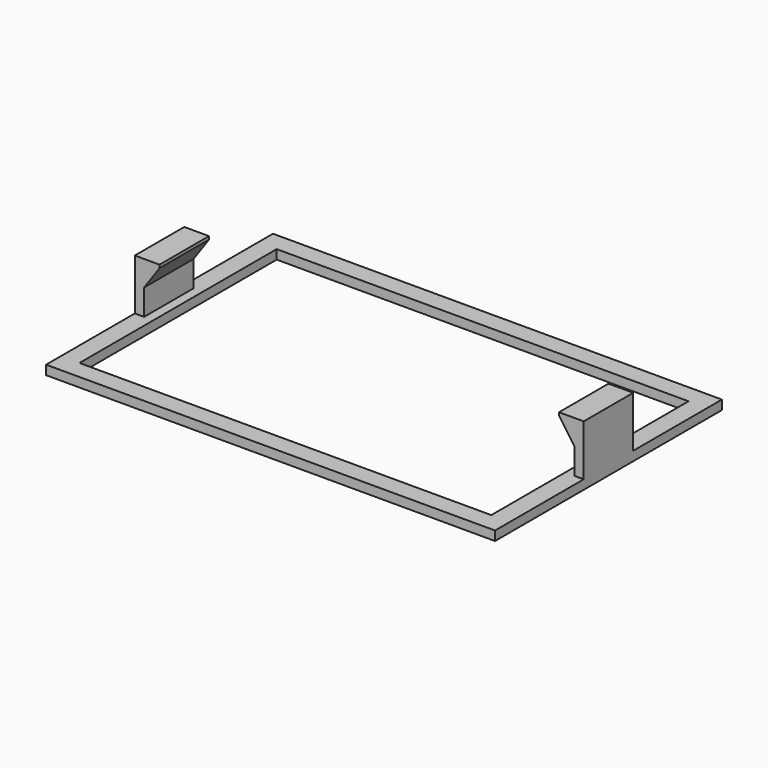
from build123d import *

# Parameters (mm, degrees)
F0_W     = 145.192
F0_H     = 91.725
F1_DEPTH = 3
F2_W     = 133.192
F2_H     = 79.725
F3_DEPTH = 3
F4_W     = 3
F4_H     = 20
F5_DEPTH = 16.5
F7_DEPTH = 20


with BuildPart() as f1:
    # F0 (on Top) → F1 (new body)
    with BuildSketch(Plane.XY):
        Rectangle(F0_W, F0_H)
    extrude(amount=F1_DEPTH)

    # F2 (on face) → F3 (cut)
    with BuildSketch(Plane.XY.offset(3)):
        Rectangle(F2_W, F2_H)
    extrude(amount=-F3_DEPTH, mode=Mode.SUBTRACT)

    # F4 (on face) → F5 (join)
    with BuildSketch(Plane.XY.offset(3)):
        with Locations((-71.096, 0)):
            Rectangle(F4_W, F4_H)
    extrude(amount=F5_DEPTH)

    # F6 (on face) → F7 (join)
    with BuildSketch(Plane.XZ.offset(10)):
        Polygon((-64.596, 19.5), (-69.596, 19.5), (-69.596, 11.3592599663), (-64.596, 18.5), align=None)
    extrude(amount=-F7_DEPTH)

    # F8: F1 across plane


with BuildPart() as f1_1:
    add(f1.part)
    add(f1.part.mirror(Plane.YZ))


solid = f1_1.part
